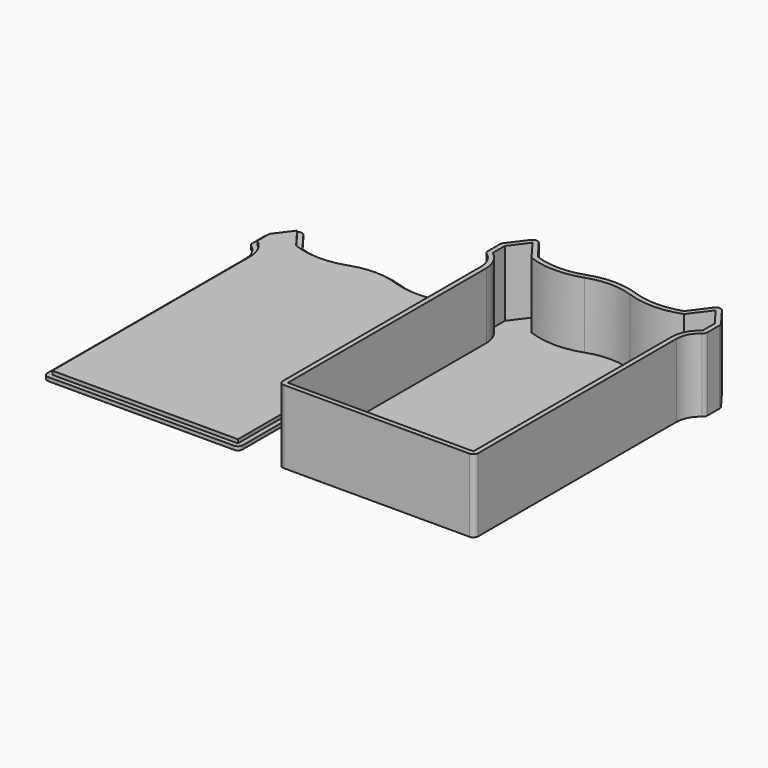
from build123d import *

# Parameters (mm, degrees)
F1_DEPTH = 30
F2_DEPTH = 3
F4_DEPTH = 3
F5_DEPTH = 1.5


with BuildPart() as f1:
    # F0 (on Top) → F1 (new body)
    with BuildSketch(Plane.XY):
        with BuildLine():
            ThreePointArc((0, 2), (0.585786, 0.585786), (2, 0))
            Line((2, 0), (78, 0))
            ThreePointArc((78, 0), (79.414214, 0.585786), (80, 2))
            Line((80, 2), (80, 103.605524))
            ThreePointArc((80, 103.605524), (81.16164, 108.022417), (84.166069, 111.462151))
            ThreePointArc((84.166069, 111.462151), (84.779345, 112.173847), (85, 113.087046))
            Line((85, 113.087046), (85, 119.333333))
            ThreePointArc((85, 119.333333), (84.897367, 119.965789), (84.6, 120.533333))
            Line((84.6, 120.533333), (79.1, 127.866667))
            ThreePointArc((79.1, 127.866667), (77.5, 128.666667), (75.9, 127.866667))
            Line((75.9, 127.866667), (70, 120))
            ThreePointArc((70, 120), (60, 118.284271), (50, 120))
            ThreePointArc((50, 120), (40, 121.715729), (30, 120))
            ThreePointArc((30, 120), (20, 118.284271), (10, 120))
            Line((10, 120), (4.1, 127.866667))
            ThreePointArc((4.1, 127.866667), (2.5, 128.666667), (0.9, 127.866667))
            Line((0.9, 127.866667), (-4.6, 120.533333))
            ThreePointArc((-4.6, 120.533333), (-4.897367, 119.965789), (-5, 119.333333))
            Line((-5, 119.333333), (-5, 113.152142))
            ThreePointArc((-5, 113.152142), (-4.779379, 112.239009), (-4.166188, 111.527333))
            ThreePointArc((-4.166188, 111.527333), (-1.15557, 108.075205), (0, 103.642862))
            Line((0, 103.642862), (0, 2))
        make_face()
        with BuildLine():
            Line((2.5, 126.666667), (8.756601, 118.324532))
            ThreePointArc((8.756601, 118.324532), (19.693087, 116.285743), (30.666667, 118.114382))
            ThreePointArc((30.666667, 118.114382), (40, 119.715729), (49.333333, 118.114382))
            ThreePointArc((49.333333, 118.114382), (60.306913, 116.285743), (71.243399, 118.324532))
            Line((71.243399, 118.324532), (77.5, 126.666667))
            Line((77.5, 126.666667), (83, 119.333333))
            Line((83, 119.333333), (83, 113.152142))
            ThreePointArc((83, 113.152142), (79.381412, 108.99851), (78, 103.665731))
            Line((78, 103.665731), (78, 103.605524))
            Line((78, 103.605524), (78, 2))
            Line((78, 2), (2, 2))
            Line((2, 2), (2, 103.665731))
            ThreePointArc((2, 103.665731), (0.618588, 108.99851), (-3, 113.152142))
            Line((-3, 113.152142), (-3, 119.333333))
            Line((-3, 119.333333), (2.5, 126.666667))
        make_face(mode=Mode.SUBTRACT)
    extrude(amount=F1_DEPTH)

    # F0 (on Top) → F2 (join)
    with BuildSketch(Plane.XY):
        with BuildLine():
            ThreePointArc((30.666667, 118.114382), (19.693087, 116.285743), (8.756601, 118.324532))
            Line((8.756601, 118.324532), (2.5, 126.666667))
            Line((2.5, 126.666667), (-3, 119.333333))
            Line((-3, 119.333333), (-3, 113.152142))
            ThreePointArc((-3, 113.152142), (0.618588, 108.99851), (2, 103.665731))
            Line((2, 103.665731), (2, 2))
            Line((2, 2), (78, 2))
            Line((78, 2), (78, 103.605524))
            Line((78, 103.605524), (78, 103.665731))
            ThreePointArc((78, 103.665731), (79.381412, 108.99851), (83, 113.152142))
            Line((83, 113.152142), (83, 119.333333))
            Line((83, 119.333333), (77.5, 126.666667))
            Line((77.5, 126.666667), (71.243399, 118.324532))
            ThreePointArc((71.243399, 118.324532), (60.306913, 116.285743), (49.333333, 118.114382))
            ThreePointArc((49.333333, 118.114382), (40, 119.715729), (30.666667, 118.114382))
        make_face()
    extrude(amount=F2_DEPTH)


with BuildPart() as f4:
    # F3 (on Top) → F4 (new body)
    with BuildSketch(Plane.XY):
        with BuildLine():
            ThreePointArc((-65.752624, 118.114382), (-76.726204, 116.285743), (-87.66269, 118.324532))
            Line((-87.66269, 118.324532), (-93.919291, 126.666667))
            Line((-93.919291, 126.666667), (-99.419291, 119.333333))
            Line((-99.419291, 119.333333), (-99.419291, 113.152142))
            ThreePointArc((-99.419291, 113.152142), (-95.800702, 108.99851), (-94.419291, 103.665731))
            Line((-94.419291, 103.665731), (-94.419291, 2))
            Line((-94.419291, 2), (-18.419291, 2))
            Line((-18.419291, 2), (-18.419291, 103.605524))
            Line((-18.419291, 103.605524), (-18.419291, 103.665731))
            ThreePointArc((-18.419291, 103.665731), (-17.037879, 108.99851), (-13.419291, 113.152142))
            Line((-13.419291, 113.152142), (-13.419291, 119.333333))
            Line((-13.419291, 119.333333), (-18.919291, 126.666667))
            Line((-18.919291, 126.666667), (-25.175892, 118.324532))
            ThreePointArc((-25.175892, 118.324532), (-36.112377, 116.285743), (-47.085957, 118.114382))
            ThreePointArc((-47.085957, 118.114382), (-56.419291, 119.715729), (-65.752624, 118.114382))
        make_face()
    extrude(amount=F4_DEPTH)

    # F3 (on Top) → F5 (join)
    with BuildSketch(Plane.XY):
        with BuildLine():
            ThreePointArc((-96.419291, 2), (-95.833504, 0.585786), (-94.419291, 0))
            Line((-94.419291, 0), (-18.419291, 0))
            ThreePointArc((-18.419291, 0), (-17.005077, 0.585786), (-16.419291, 2))
            Line((-16.419291, 2), (-16.419291, 103.605524))
            ThreePointArc((-16.419291, 103.605524), (-15.25765, 108.022417), (-12.253222, 111.462151))
            ThreePointArc((-12.253222, 111.462151), (-11.639946, 112.173847), (-11.419291, 113.087046))
            Line((-11.419291, 113.087046), (-11.419291, 119.333333))
            ThreePointArc((-11.419291, 119.333333), (-11.521924, 119.965789), (-11.819291, 120.533333))
            Line((-11.819291, 120.533333), (-17.319291, 127.866667))
            ThreePointArc((-17.319291, 127.866667), (-18.919291, 128.666667), (-20.519291, 127.866667))
            Line((-20.519291, 127.866667), (-26.419291, 120))
            ThreePointArc((-26.419291, 120), (-36.419291, 118.284271), (-46.419291, 120))
            ThreePointArc((-46.419291, 120), (-56.419291, 121.715729), (-66.419291, 120))
            ThreePointArc((-66.419291, 120), (-76.419291, 118.284271), (-86.419291, 120))
            Line((-86.419291, 120), (-92.319291, 127.866667))
            ThreePointArc((-92.319291, 127.866667), (-93.919291, 128.666667), (-95.519291, 127.866667))
            Line((-95.519291, 127.866667), (-101.019291, 120.533333))
            ThreePointArc((-101.019291, 120.533333), (-101.316657, 119.965789), (-101.419291, 119.333333))
            Line((-101.419291, 119.333333), (-101.419291, 113.152142))
            ThreePointArc((-101.419291, 113.152142), (-101.198669, 112.239009), (-100.585479, 111.527333))
            ThreePointArc((-100.585479, 111.527333), (-97.574861, 108.075205), (-96.419291, 103.642862))
            Line((-96.419291, 103.642862), (-96.419291, 2))
        make_face()
        with BuildLine():
            Line((-93.919291, 126.666667), (-87.66269, 118.324532))
            ThreePointArc((-87.66269, 118.324532), (-76.726204, 116.285743), (-65.752624, 118.114382))
            ThreePointArc((-65.752624, 118.114382), (-56.419291, 119.715729), (-47.085957, 118.114382))
            ThreePointArc((-47.085957, 118.114382), (-36.112377, 116.285743), (-25.175892, 118.324532))
            Line((-25.175892, 118.324532), (-18.919291, 126.666667))
            Line((-18.919291, 126.666667), (-13.419291, 119.333333))
            Line((-13.419291, 119.333333), (-13.419291, 113.152142))
            ThreePointArc((-13.419291, 113.152142), (-17.037879, 108.99851), (-18.419291, 103.665731))
            Line((-18.419291, 103.665731), (-18.419291, 103.605524))
            Line((-18.419291, 103.605524), (-18.419291, 2))
            Line((-18.419291, 2), (-94.419291, 2))
            Line((-94.419291, 2), (-94.419291, 103.665731))
            ThreePointArc((-94.419291, 103.665731), (-95.800702, 108.99851), (-99.419291, 113.152142))
            Line((-99.419291, 113.152142), (-99.419291, 119.333333))
            Line((-99.419291, 119.333333), (-93.919291, 126.666667))
        make_face(mode=Mode.SUBTRACT)
    extrude(amount=F5_DEPTH)


solid = Compound([f1.part, f4.part])
